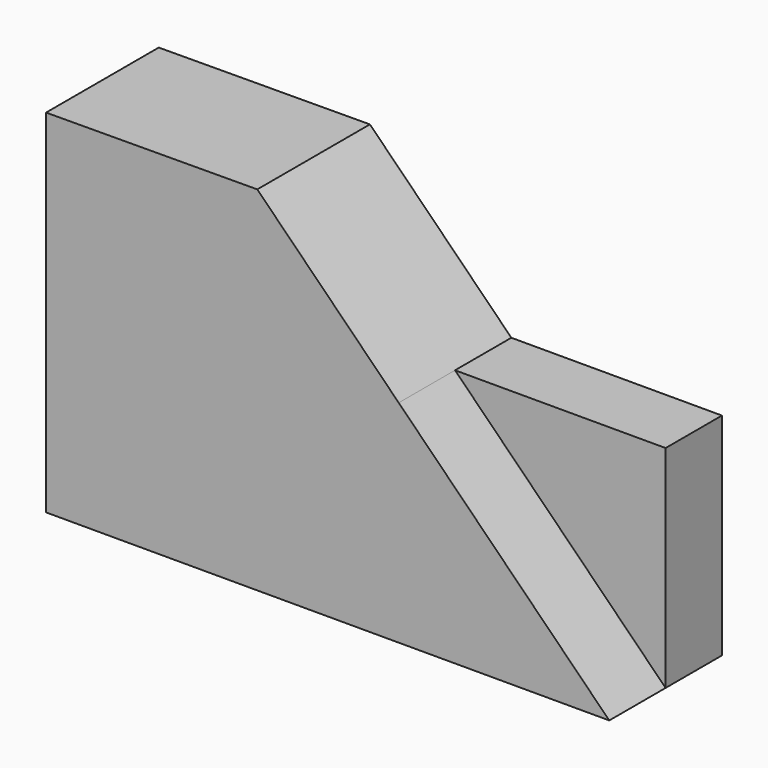
from build123d import *

# Parameters (mm, degrees)
F1_DEPTH = 25.4
F2_DEPTH = 25.4


with BuildPart() as f1:
    # F0 (on Front) → F1 (new body, symmetric)
    with BuildSketch(Plane.XZ):
        Polygon((-23.425764, 72.446765), (-99.625764, 72.066877), (-99.625764, -54.933123), (103.574236, -54.933123), (27.601489, 21.266877), align=None)
    extrude(amount=F1_DEPTH, both=True)

    # F0 (on Front) → F2 (join)
    with BuildSketch(Plane.XZ):
        Polygon((27.601489, 21.266877), (103.574236, -54.933123), (103.574236, 21.266877), align=None)
    extrude(amount=-F2_DEPTH)


solid = f1.part
